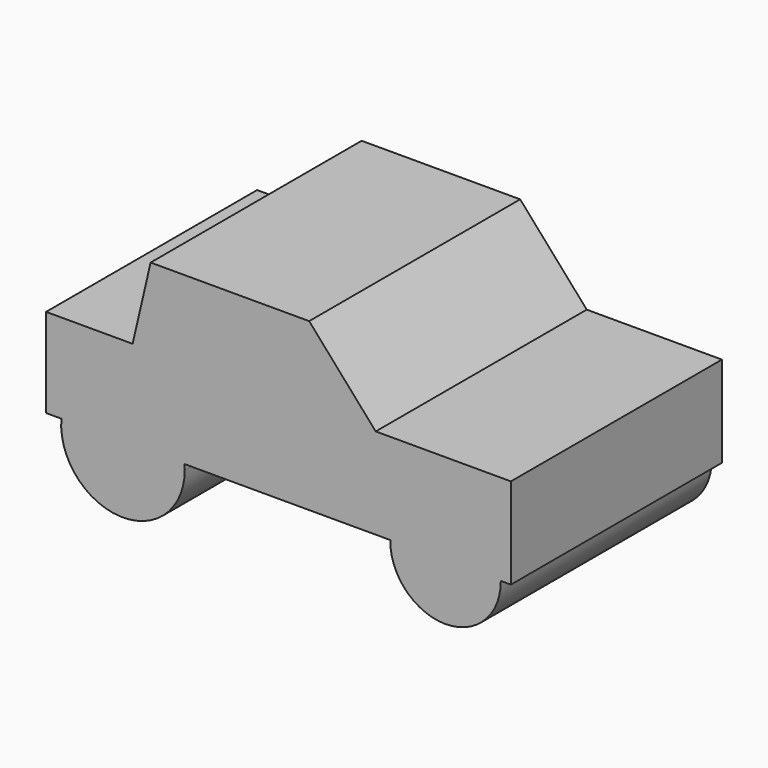
from build123d import *

# Parameters (mm, degrees)
F3_DEPTH = 76.2


with BuildPart() as f3:
    # F2 (on face) → F3 (new body)
    with BuildSketch(Plane.XZ):
        with BuildLine():
            ThreePointArc((23.432876, -18.704671), (39.391141, -2.962637), (55.349406, -18.704671))
            Line((55.349406, -18.704671), (58.282666, -18.704671))
            Line((58.282666, -18.704671), (58.282666, 7.556662))
            Line((58.282666, 7.556662), (19.231044, 7.556662))
            Line((19.231044, 7.556662), (0, 29.359408))
            Line((0, 29.359408), (-45.805167, 29.359408))
            Line((-45.805167, 29.359408), (-51.002167, 7.000253))
            Line((-51.002167, 7.000253), (-76.00525, 7.000253))
            Line((-76.00525, 7.000253), (-76.00525, -18.745113))
            Line((-76.00525, -18.745113), (-71.593166, -18.737061))
            ThreePointArc((-71.593166, -18.737061), (-53.815115, -2.368458), (-36.007295, -18.704671))
            Line((-36.007295, -18.704671), (23.432876, -18.704671))
        make_face()
        with BuildLine():
            Line((-53.844772, -18.704671), (-36.007295, -18.704671))
            ThreePointArc((-36.007295, -18.704671), (-53.815115, -2.368458), (-71.593166, -18.737061))
            Line((-71.593166, -18.737061), (-53.844772, -18.704671))
        make_face()
        with BuildLine():
            ThreePointArc((-35.942469, -20.224843), (-35.958683, -19.464066), (-36.007295, -18.704671))
            Line((-36.007295, -18.704671), (-53.844772, -18.704671))
            Line((-53.844772, -18.704671), (-71.593166, -18.737061))
            ThreePointArc((-71.593166, -18.737061), (-54.5434, -38.065707), (-35.942469, -20.224843))
        make_face()
        with BuildLine():
            ThreePointArc((23.432876, -18.704671), (39.282281, -34.881765), (55.350891, -18.922387))
            ThreePointArc((55.350891, -18.922387), (55.35052, -18.813527), (55.349406, -18.704671))
            Line((55.349406, -18.704671), (23.432876, -18.704671))
        make_face()
        with BuildLine():
            Line((23.432876, -18.704671), (55.349406, -18.704671))
            ThreePointArc((55.349406, -18.704671), (39.391141, -2.962637), (23.432876, -18.704671))
        make_face()
    extrude(amount=F3_DEPTH)


solid = f3.part
